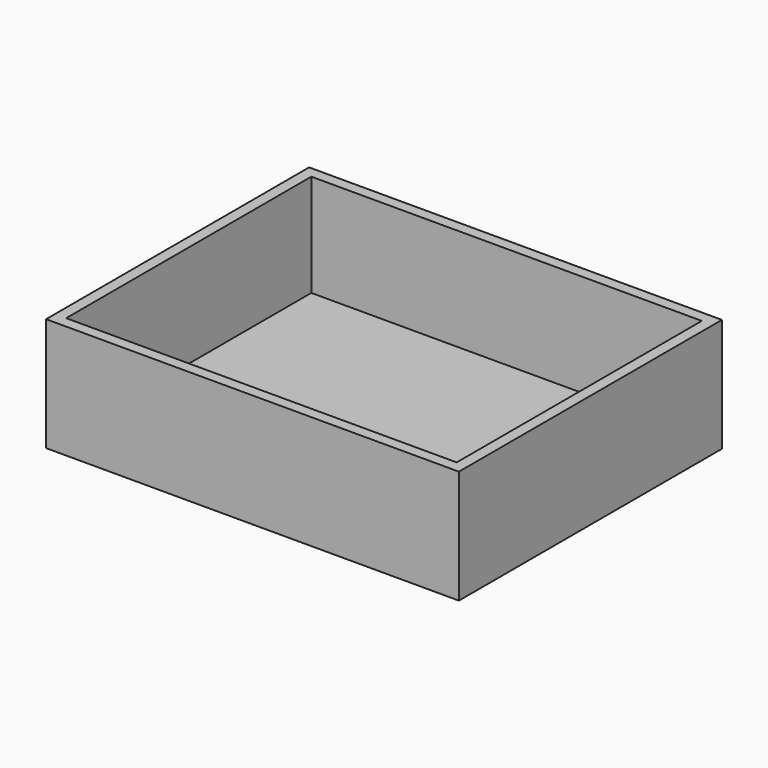
from build123d import *

# Parameters (mm, degrees)
F0_W      = 92.3617742956
F0_H      = 73.5575780272
F1_DEPTH  = 25.4
F2_DEPTH  = 25
F3_T      = -2.5
F3_FACE_W = 87.3617742956
F3_FACE_H = 68.5575780272


with BuildPart() as f1:
    # F0 (on Top) → F1 (new body)
    with BuildSketch(Plane.XY):
        with Locations((1.8435474485, 4.9775801599)):
            Rectangle(F0_W, F0_H)
    extrude(amount=F1_DEPTH)

    # F0 (on Top) → F2 (join)
    with BuildSketch(Plane.XY):
        with Locations((1.8435474485, 4.9775801599)):
            Rectangle(F0_W, F0_H)
    extrude(amount=F2_DEPTH)

    # F3
    f3_openings = [f1.faces().sort_by_distance(p)[0] for p in [
        (1.843547, 4.97758, 25.4),
    ]]
    offset(amount=F3_T, openings=f3_openings)

    # F3_face (on face) → F4 section 0
    with BuildSketch(Plane(origin=(1.8435474485, 4.9775801599, 2.5), x_dir=(1, 0, 0), z_dir=(0, 0, 1)), mode=Mode.PRIVATE) as f4_s0:
        Rectangle(F3_FACE_W, F3_FACE_H)
    loft([f4_s0.sketch, Vertex(0, 0, 0)])


solid = f1.part
